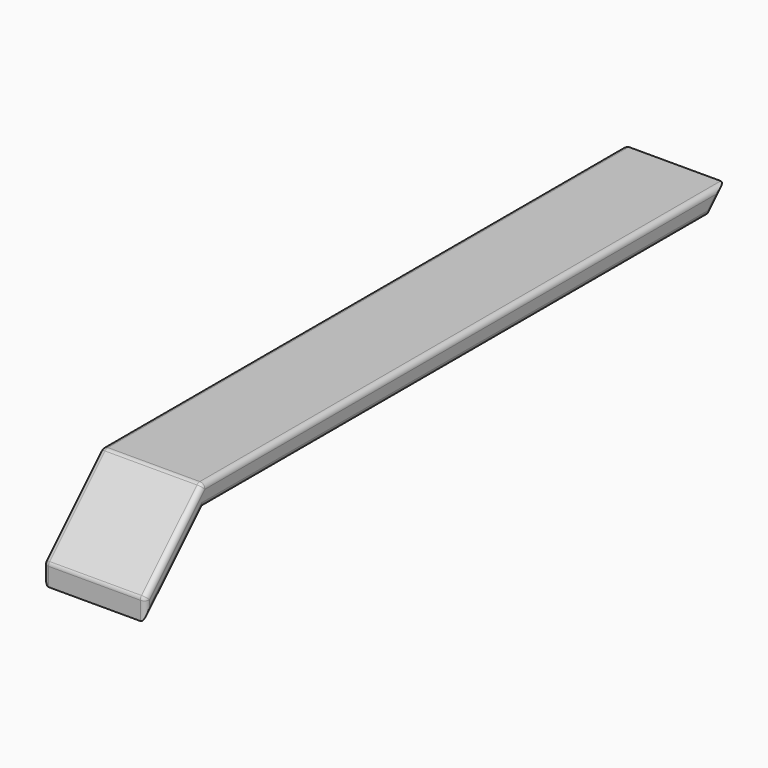
from build123d import *

# Parameters (mm, degrees)
F1_DEPTH = 50
F2_R     = 5
F3_R     = 5


with BuildPart() as f1:
    # F0 (on Right) → F1 (new body, symmetric)
    with BuildSketch(Plane.YZ):
        Polygon((300, -10), (320, 10), (-320, 10), (-320, -10), align=None)
        Polygon((-320, -10), (-320, 10), (-390.7106781187, -60.7106781187), (-390.7106781187, -80.7106781187), align=None)
    extrude(amount=F1_DEPTH, both=True)

    # F2
    f2_edges = [f1.edges().sort_by_distance(p)[0] for p in [
        (50, 310, 0),
        (50, 0, 10),
        (50, -355.355339, -25.355339),
        (50, -390.710678, -70.710678),
        (50, -355.355339, -45.355339),
        (50, -10, -10),
        (-50, 310, 0),
        (-50, 0, 10),
        (-50, -355.355339, -25.355339),
        (-50, -390.710678, -70.710678),
        (-50, -355.355339, -45.355339),
        (-50, -10, -10),
    ]]
    fillet(f2_edges, radius=F2_R)

    # F3
    f3_edges = [f1.edges().sort_by_distance(p)[0] for p in [
        (0, -320, 10),
        (0, -390.710678, -60.710678),
    ]]
    fillet(f3_edges, radius=F3_R)


solid = f1.part
